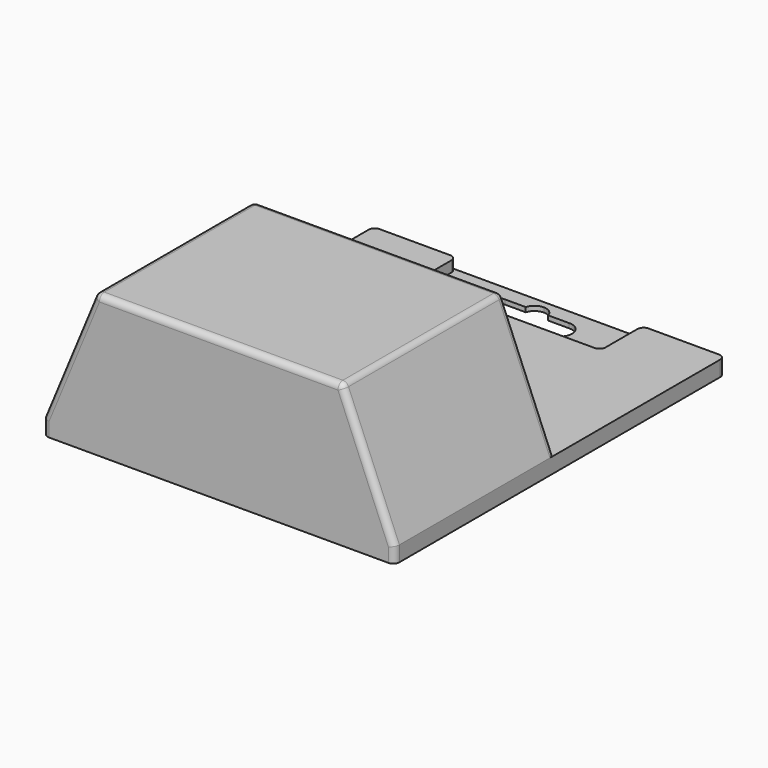
from build123d import *

# Parameters (mm, degrees)
F1_DEPTH      = 65
F2_W          = 57
F2_H          = 5
F3_DEPTH      = 65
F3_DEPTH_BACK = 69
F6_DEPTH      = 3.5
F8_DEPTH      = 12.5
F9_R          = 2


with BuildPart() as f1:
    # F0 (on Front) → F1 (new body)
    with BuildSketch(Plane.XZ):
        Polygon((40, 46), (0, 46), (-40, 46), (-57, 5), (0, 5), (57, 5), align=None)
    extrude(amount=F1_DEPTH)

    # F2 (on Front) → F3 (join, two sides)
    with BuildSketch(Plane.XZ) as f3_sk:
        with Locations((-28.5, 2.5)):
            Rectangle(F2_W, F2_H)
        with Locations((28.5, 2.5)):
            Rectangle(F2_W, F2_H)
    extrude(amount=F3_DEPTH)
    extrude(f3_sk.sketch, amount=-F3_DEPTH_BACK)

    # F5 (on offset) → F6 (cut)
    with BuildSketch(Plane.XY.offset(5)):
        Polygon((30.152792, 69.905717), (0, 69.905717), (-30.152792, 69.905717), (-30.152792, 52.123178), (0, 52.123178), (30.152792, 52.123178), align=None)
    extrude(amount=-F6_DEPTH, mode=Mode.SUBTRACT)

    # F7 (on offset) → F8 (cut, symmetric)
    with BuildSketch(Plane.XY.offset(5)):
        with BuildLine():
            Line((-3.643007, 63.996591), (-10.390692, 63.996591))
            ThreePointArc((-10.390692, 63.996591), (-14.664988, 59.978003), (-10.578685, 55.768397))
            Line((-10.578685, 55.768397), (0, 55.695605))
            Line((0, 55.695605), (10.578685, 55.768397))
            ThreePointArc((10.578685, 55.768397), (14.664988, 59.978003), (10.390692, 63.996591))
            Line((10.390692, 63.996591), (3.643007, 63.996591))
            ThreePointArc((3.643007, 63.996591), (2.282959, 65.983581), (0, 66.749063))
            ThreePointArc((0, 66.749063), (-2.282959, 65.983581), (-3.643007, 63.996591))
        make_face()
    extrude(amount=F8_DEPTH, both=True, mode=Mode.SUBTRACT)

    # F9
    f9_edges = [f1.edges().sort_by_distance(p)[0] for p in [
        (40, -32.5, 46),
        (-40, -32.5, 46),
        (0, 0, 46),
        (-48.5, 0, 25.5),
        (48.5, 0, 25.5),
        (48.5, -65, 25.5),
        (0, -65, 46),
        (-48.5, -65, 25.5),
        (30.152792, 52.123178, 3.25),
        (-30.152792, 52.123178, 3.25),
        (30.152792, 69, 3.25),
        (-30.152792, 69, 3.25),
        (-57, 69, 2.5),
        (57, 69, 2.5),
        (-57, -65, 2.5),
        (57, -65, 2.5),
    ]]
    fillet(f9_edges, radius=F9_R)


solid = f1.part
